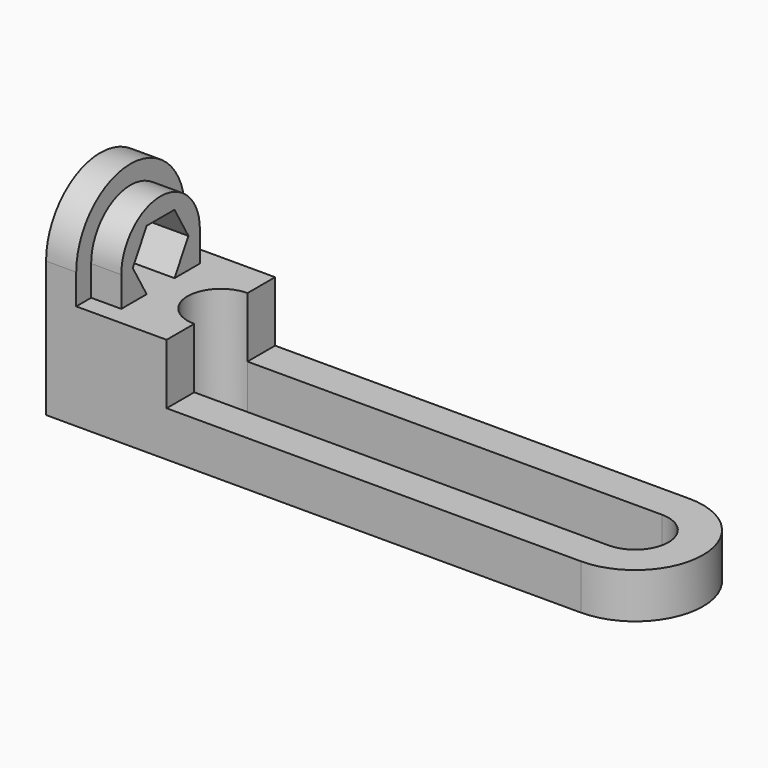
from build123d import *

# Parameters (mm, degrees)
F1_DEPTH       = 9.525
F2_W           = 25.4
F2_H           = 28.575
F3_DEPTH       = 12.7
F4_W           = 6.35
F4_H           = 28.575
F5_DEPTH       = 25.4
F7_DEPTH       = 6.35
F8_R           = 3.429
F9_DEPTH       = 25.4
F11_DEPTH      = 25.4
F11_DEPTH_BACK = 25.4
F13_DEPTH      = 3.175


with BuildPart() as f1:
    # F0 (on Top) → F1 (new body)
    with BuildSketch(Plane.XY):
        Polygon((101.6, 14.2875), (0, 14.2875), (-25.4, 14.2875), (-25.4, -14.2875), (0, -14.2875), (101.6, -14.2875), align=None)
    extrude(amount=F1_DEPTH)

    # F2 (on face) → F3 (join)
    with BuildSketch(Plane.XY.offset(9.525)):
        with Locations((-12.7, 0)):
            Rectangle(F2_W, F2_H)
    extrude(amount=F3_DEPTH)

    # F4 (on face) → F5 (join)
    with BuildSketch(Plane.XY.offset(22.225)):
        with Locations((-22.225, 0)):
            Rectangle(F4_W, F4_H)
    extrude(amount=F5_DEPTH)

    # F6 (on face) → F7 (join)
    with BuildSketch(Plane.YZ.offset(-19.05)):
        with BuildLine():
            Line((10.3502472592, 17.0163675877), (10.3502472592, 28.575))
            ThreePointArc((10.3502472592, 28.575), (0, 38.9252472592), (-10.3502472592, 28.575))
            Line((-10.3502472592, 28.575), (-10.3502472592, 17.0163675877))
            Line((-10.3502472592, 17.0163675877), (10.3502472592, 17.0163675877))
        make_face()
        Polygon((7.3323484187, 28.575), (3.6661742094, 22.225), (-3.6661742094, 22.225), (-7.3323484187, 28.575), (-3.6661742094, 34.925), (3.6661742094, 34.925), align=None, mode=Mode.SUBTRACT)
    extrude(amount=F7_DEPTH)

    # F8 (on face) → F9 (cut)
    with BuildSketch(Plane.YZ.offset(-19.05)):
        with BuildLine():
            Line((-14.2875, 47.625), (-14.2875, 28.575))
            ThreePointArc((-14.2875, 28.575), (0, 42.8625), (14.2875, 28.575))
            Line((14.2875, 28.575), (14.2875, 47.625))
            Line((14.2875, 47.625), (-14.2875, 47.625))
        make_face()
        with Locations((0, 28.575)):
            Circle(F8_R)
    extrude(amount=-F9_DEPTH, mode=Mode.SUBTRACT)

    # F10 (on face) → F11 (cut, two sides)
    with BuildSketch(Plane.XY.offset(9.525)) as f11_sk:
        with BuildLine():
            Line((87.3125, 7.0132897794), (0, 7.0132897794))
            ThreePointArc((0, 7.0132897794), (-7.0132897794, 0), (0, -7.0132897794))
            Line((0, -7.0132897794), (87.3125, -7.0132897794))
            ThreePointArc((87.3125, -7.0132897794), (94.3257897794, 0), (87.3125, 7.0132897794))
        make_face()
        with BuildLine():
            Line((103.5399436951, 14.2875), (87.3125, 14.2875))
            ThreePointArc((87.3125, 14.2875), (101.6, 0), (87.3125, -14.2875))
            Line((87.3125, -14.2875), (103.5399436951, -17.2526948154))
            Line((103.5399436951, -17.2526948154), (103.5399436951, 14.2875))
        make_face()
    extrude(amount=-F11_DEPTH, mode=Mode.SUBTRACT)
    extrude(f11_sk.sketch, amount=F11_DEPTH_BACK, mode=Mode.SUBTRACT)

    # F12 (on face) → F13 (cut)
    with BuildSketch(Plane.YZ.offset(-19.05)):
        Polygon((3.6661742094, 22.225), (7.3323484187, 28.575), (3.6661742094, 34.925), (-3.6661742094, 34.925), (-7.3323484187, 28.575), (-3.6661742094, 22.225), align=None)
    extrude(amount=-F13_DEPTH, mode=Mode.SUBTRACT)


solid = f1.part
